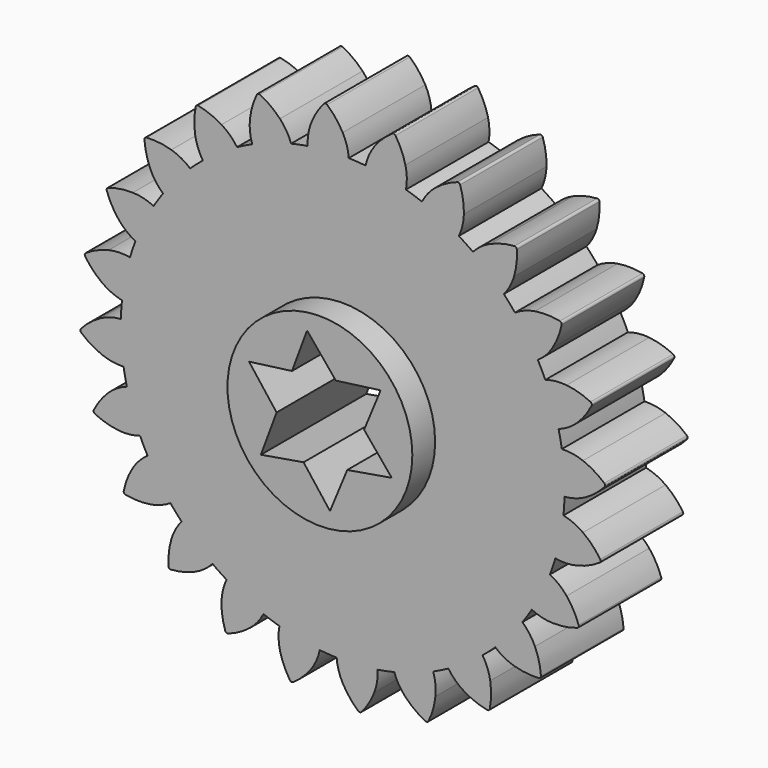
from build123d import *

# Parameters (mm, degrees)
F1_DEPTH = 25
F2_COUNT = 24
F3_R     = 22.3782381025
F4_DEPTH = 6.9
F6_DEPTH = 250


with BuildPart() as f1:
    # F0 (on Front) → F1 (new body)
    with BuildSketch(Plane.XZ):
        with BuildLine():
            ThreePointArc((-8.4671346333, 53.0495379066), (-34.8646160266, -40.8705809883), (53.721, 0))
            ThreePointArc((53.721, 0), (38.5028189495, 37.4630320975), (1.4703429408, 53.7008745984))
            ThreePointArc((1.4703429408, 53.7008745984), (-3.5135215054, 53.6059792153), (-8.4671346333, 53.0495379066))
        make_face()
        with BuildLine():
            ThreePointArc((-8.4671346333, 53.0495379066), (-3.5135215054, 53.6059792153), (1.4703429408, 53.7008745984))
            ThreePointArc((1.4703429408, 53.7008745984), (0.9962534679, 56.2646282086), (0, 58.674))
            ThreePointArc((0, 58.674), (-1.6733569181, 61.1984930306), (-3.7657710024, 63.3882399879))
            ThreePointArc((-3.7657710024, 63.3882399879), (-4.1636880586, 63.5256039231), (-4.5402712877, 63.3374765572))
            ThreePointArc((-4.5402712877, 63.3374765572), (-6.3289651472, 60.8933483458), (-7.6584938023, 58.1720357962))
            ThreePointArc((-7.6584938023, 58.1720357962), (-8.3317380582, 55.6532393428), (-8.4671346333, 53.0495379066))
        make_face()
    extrude(amount=F1_DEPTH)

    # F2: F1 ×24 about axis
    f2_axis = Axis((0, 0, 0), (0, 1, 0))


with BuildPart() as f1_1:
    add(f1.part)
    for i in range(1, F2_COUNT):
        add(f1.part.rotate(f2_axis, i * 360 / F2_COUNT))

    # F3 (on face) → F4 (join)
    with BuildSketch(Plane.XZ.offset(25)):
        Circle(F3_R)
    extrude(amount=F4_DEPTH)

    # F5 (on face) → F6 (cut)
    with BuildSketch(Plane.XZ.offset(31.9)):
        Polygon((-6.7553433487, 8.4591513343), (-17.1512541598, 7.0751677715), (-10.4841712799, -1.5875108193), align=None)
        Polygon((-3.1060910992, 18.2914109989), (-6.7553433487, 8.4591513343), (3.8672609416, 9.8733140757), align=None)
        Polygon((14.702902106, 11.3158379234), (3.8672609416, 9.8733140757), (10.7035116243, 1.6207232841), align=None)
        Polygon((17.3938721457, -6.4557517011), (10.7035116243, 1.6207232841), (6.6169103383, -8.2858032563), align=None)
        Polygon((6.6169103383, -8.2858032563), (-3.9481682756, -10.0798746184), (2.4483520538, -18.3910056949), align=None)
        Polygon((-3.9481682756, -10.0798746184), (-10.4841712799, -1.5875108193), (-14.2877810465, -11.8356592978), align=None)
        Polygon((3.8672609416, 9.8733140757), (-6.7553433487, 8.4591513343), (-10.4841712799, -1.5875108193), (-3.9481682756, -10.0798746184), (6.6169103383, -8.2858032563), (10.7035116243, 1.6207232841), align=None)
    extrude(amount=-F6_DEPTH, mode=Mode.SUBTRACT)


solid = f1_1.part
